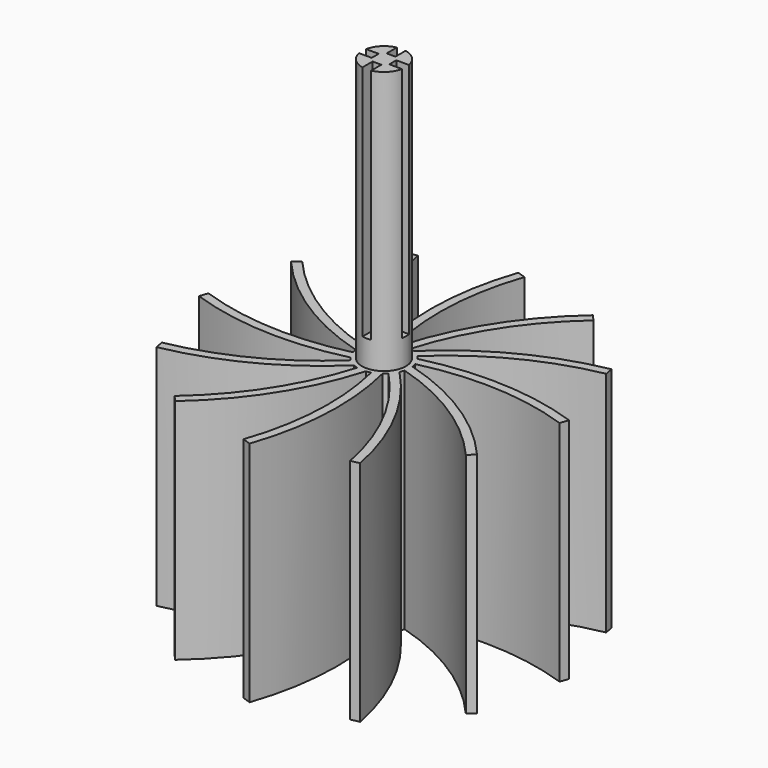
from build123d import *

# Parameters (mm, degrees)
F1_DEPTH = 51.9
F2_R     = 5
F3_DEPTH = 50
F4_R     = 5
F5_DEPTH = 60
F7_DEPTH = 54


with BuildPart() as f1:
    # F0 (on Top) → F1 (new body)
    with BuildSketch(Plane.XY):
        with BuildLine():
            ThreePointArc((1.3337239415, 1.4907111791), (1.4431608729, 1.6087570846), (1.5529086216, 1.7265140778))
            ThreePointArc((1.5529086216, 1.7265140778), (0.9818308126, 1.8448281713), (0.4096832255, 1.9578557215))
            ThreePointArc((0.4096832255, 1.9578557215), (0.1968239575, 0.980605563), (0, 0))
            ThreePointArc((0, 0), (0.6607573288, 0.7508173499), (1.3337239415, 1.4907111791))
        make_face()
        with BuildLine():
            ThreePointArc((1.9003944045, 0.62413178), (2.05419252, 0.6716440673), (2.2081153549, 0.7187507406))
            ThreePointArc((2.2081153549, 0.7187507406), (1.7727045116, 1.1067526557), (1.3337239415, 1.4907111791))
            ThreePointArc((1.3337239415, 1.4907111791), (0.6607573288, 0.7508173499), (0, 0))
            ThreePointArc((0, 0), (0.9476413074, 0.3198482342), (1.9003944045, 0.62413178))
        make_face()
        with BuildLine():
            ThreePointArc((1.9578557215, -0.4096832255), (2.1148049403, -0.4454354354), (2.2716593622, -0.4816012771))
            ThreePointArc((2.2716593622, -0.4816012771), (2.0885834683, 0.0721236597), (1.9003944045, 0.62413178))
            ThreePointArc((1.9003944045, 0.62413178), (0.9476413074, 0.3198482342), (0, 0))
            ThreePointArc((0, 0), (0.980605563, -0.1968239575), (1.9578557215, -0.4096832255))
        make_face()
        with BuildLine():
            ThreePointArc((1.7265140778, -1.5529086216), (1.8448281713, -0.9818308126), (1.9578557215, -0.4096832255))
            ThreePointArc((1.9578557215, -0.4096832255), (0.980605563, -0.1968239575), (0, 0))
            ThreePointArc((0, 0), (0.7508173499, -0.6607573288), (1.4907111791, -1.3337239415))
            ThreePointArc((1.4907111791, -1.3337239415), (1.6087570846, -1.4431608729), (1.7265140778, -1.5529086216))
        make_face()
        with BuildLine():
            ThreePointArc((1.4907111791, -1.3337239415), (0.7508173499, -0.6607573288), (0, 0))
            ThreePointArc((0, 0), (0.3198482342, -0.9476413074), (0.62413178, -1.9003944045))
            ThreePointArc((0.62413178, -1.9003944045), (0.6716440673, -2.05419252), (0.7187507406, -2.2081153549))
            ThreePointArc((0.7187507406, -2.2081153549), (1.1067526557, -1.7727045116), (1.4907111791, -1.3337239415))
        make_face()
        with BuildLine():
            ThreePointArc((0.62413178, -1.9003944045), (0.3198482342, -0.9476413074), (0, 0))
            ThreePointArc((0, 0), (-0.1968239575, -0.980605563), (-0.4096832255, -1.9578557215))
            ThreePointArc((-0.4096832255, -1.9578557215), (-0.4454354354, -2.1148049403), (-0.4816012771, -2.2716593622))
            ThreePointArc((-0.4816012771, -2.2716593622), (0.0721236597, -2.0885834683), (0.62413178, -1.9003944045))
        make_face()
        with BuildLine():
            ThreePointArc((-0.4096832255, -1.9578557215), (-0.1968239575, -0.980605563), (0, 0))
            ThreePointArc((0, 0), (-0.6607573288, -0.7508173499), (-1.3337239415, -1.4907111791))
            ThreePointArc((-1.3337239415, -1.4907111791), (-1.4431608729, -1.6087570846), (-1.5529086216, -1.7265140778))
            ThreePointArc((-1.5529086216, -1.7265140778), (-0.9818308126, -1.8448281713), (-0.4096832255, -1.9578557215))
        make_face()
        with BuildLine():
            ThreePointArc((-1.3337239415, -1.4907111791), (-0.6607573288, -0.7508173499), (0, 0))
            ThreePointArc((0, 0), (-0.9476413074, -0.3198482342), (-1.9003944045, -0.62413178))
            ThreePointArc((-1.9003944045, -0.62413178), (-2.05419252, -0.6716440673), (-2.2081153549, -0.7187507406))
            ThreePointArc((-2.2081153549, -0.7187507406), (-1.7727045116, -1.1067526557), (-1.3337239415, -1.4907111791))
        make_face()
        with BuildLine():
            ThreePointArc((-1.9003944045, -0.62413178), (-0.9476413074, -0.3198482342), (0, 0))
            ThreePointArc((0, 0), (-0.980605563, 0.1968239575), (-1.9578557215, 0.4096832255))
            ThreePointArc((-1.9578557215, 0.4096832255), (-2.1148049403, 0.4454354354), (-2.2716593622, 0.4816012771))
            ThreePointArc((-2.2716593622, 0.4816012771), (-2.0885834683, -0.0721236597), (-1.9003944045, -0.62413178))
        make_face()
        with BuildLine():
            ThreePointArc((-1.9578557215, 0.4096832255), (-0.980605563, 0.1968239575), (0, 0))
            ThreePointArc((0, 0), (-0.7508173499, 0.6607573288), (-1.4907111791, 1.3337239415))
            ThreePointArc((-1.4907111791, 1.3337239415), (-1.6087570846, 1.4431608729), (-1.7265140778, 1.5529086216))
            ThreePointArc((-1.7265140778, 1.5529086216), (-1.8448281713, 0.9818308126), (-1.9578557215, 0.4096832255))
        make_face()
        with BuildLine():
            ThreePointArc((-1.4907111791, 1.3337239415), (-0.7508173499, 0.6607573288), (0, 0))
            ThreePointArc((0, 0), (-0.3198482342, 0.9476413074), (-0.62413178, 1.9003944045))
            ThreePointArc((-0.62413178, 1.9003944045), (-0.6716440673, 2.05419252), (-0.7187507406, 2.2081153549))
            ThreePointArc((-0.7187507406, 2.2081153549), (-1.1067526557, 1.7727045116), (-1.4907111791, 1.3337239415))
        make_face()
        with BuildLine():
            ThreePointArc((0, 0), (0.1968239575, 0.980605563), (0.4096832255, 1.9578557215))
            ThreePointArc((0.4096832255, 1.9578557215), (0.4454354354, 2.1148049403), (0.4816012771, 2.2716593622))
            ThreePointArc((0.4816012771, 2.2716593622), (-0.0721236597, 2.0885834683), (-0.62413178, 1.9003944045))
            ThreePointArc((-0.62413178, 1.9003944045), (-0.3198482342, 0.9476413074), (0, 0))
        make_face()
        with BuildLine():
            ThreePointArc((-0.62413178, 1.9003944045), (-0.0721236597, 2.0885834683), (0.4816012771, 2.2716593622))
            ThreePointArc((0.4816012771, 2.2716593622), (0.6806785767, 3.1033997904), (0.8913857306, 3.9322703511))
            ThreePointArc((0.8913857306, 3.9322703511), (0.0782542347, 3.0777228892), (-0.7187507406, 2.2081153549))
            ThreePointArc((-0.7187507406, 2.2081153549), (-0.6716440673, 2.05419252), (-0.62413178, 1.9003944045))
        make_face()
        with BuildLine():
            ThreePointArc((0.4096832255, 1.9578557215), (0.9818308126, 1.8448281713), (1.5529086216, 1.7265140778))
            ThreePointArc((1.5529086216, 1.7265140778), (2.1411848344, 2.3472837682), (2.7380978628, 2.9597531533))
            ThreePointArc((2.7380978628, 2.9597531533), (1.6066315998, 2.6262590905), (0.4816012771, 2.2716593622))
            ThreePointArc((0.4816012771, 2.2716593622), (0.4454354354, 2.1148049403), (0.4096832255, 1.9578557215))
        make_face()
        with BuildLine():
            ThreePointArc((2.2081153549, 0.7187507406), (3.0279623449, 0.9622149559), (3.8511388839, 1.1941724883))
            ThreePointArc((3.8511388839, 1.1941724883), (2.7045133252, 1.4710912894), (1.5529086216, 1.7265140778))
            ThreePointArc((1.5529086216, 1.7265140778), (1.4431608729, 1.6087570846), (1.3337239415, 1.4907111791))
            ThreePointArc((1.3337239415, 1.4907111791), (1.7727045116, 1.1067526557), (2.2081153549, 0.7187507406))
        make_face()
        with BuildLine():
            ThreePointArc((5.8293856058, -1.4206559961), (5.9571937032, -0.715432165), (6, 0))
            ThreePointArc((6, 0), (5.991893307, 0.311792555), (5.9675951342, 0.6227425745))
            ThreePointArc((5.9675951342, 0.6227425745), (4.9118503598, 0.9176553403), (3.8511388839, 1.1941724883))
            ThreePointArc((3.8511388839, 1.1941724883), (3.0279623449, 0.9622149559), (2.2081153549, 0.7187507406))
            ThreePointArc((2.2081153549, 0.7187507406), (3.0777228892, -0.0782542347), (3.9322703511, -0.8913857306))
            ThreePointArc((3.9322703511, -0.8913857306), (4.882962136, -1.1483711934), (5.8293856058, -1.4206559961))
        make_face()
        with BuildLine():
            ThreePointArc((2.2716593622, -0.4816012771), (3.1033997904, -0.6806785767), (3.9322703511, -0.8913857306))
            ThreePointArc((3.9322703511, -0.8913857306), (3.0777228892, -0.0782542347), (2.2081153549, 0.7187507406))
            ThreePointArc((2.2081153549, 0.7187507406), (2.05419252, 0.6716440673), (1.9003944045, 0.62413178))
            ThreePointArc((1.9003944045, 0.62413178), (2.0885834683, 0.0721236597), (2.2716593622, -0.4816012771))
        make_face()
        with BuildLine():
            ThreePointArc((3.8511388839, 1.1941724883), (4.8029548522, 1.4469624415), (5.7587240211, 1.6843686202))
            ThreePointArc((5.7587240211, 1.6843686202), (5.3867561456, 2.642509835), (4.8567176985, 3.5231084567))
            ThreePointArc((4.8567176985, 3.5231084567), (3.794959521, 3.2506380165), (2.7380978628, 2.9597531533))
            ThreePointArc((2.7380978628, 2.9597531533), (2.1411848344, 2.3472837682), (1.5529086216, 1.7265140778))
            ThreePointArc((1.5529086216, 1.7265140778), (2.7045133252, 1.4710912894), (3.8511388839, 1.1941724883))
        make_face()
        with BuildLine():
            ThreePointArc((2.7380978628, 2.9597531533), (3.4359996944, 3.6545836588), (4.1450169856, 4.338068025))
            ThreePointArc((4.1450169856, 4.338068025), (3.3438127486, 4.9818587196), (2.4444866775, 5.479460273))
            ThreePointArc((2.4444866775, 5.479460273), (1.6612123432, 4.7126148613), (0.8913857306, 3.9322703511))
            ThreePointArc((0.8913857306, 3.9322703511), (0.6806785767, 3.1033997904), (0.4816012771, 2.2716593622))
            ThreePointArc((0.4816012771, 2.2716593622), (1.6066315998, 2.6262590905), (2.7380978628, 2.9597531533))
        make_face()
        with BuildLine():
            ThreePointArc((4.338068025, -4.1450169856), (4.9818587196, -3.3438127486), (5.479460273, -2.4444866775))
            ThreePointArc((5.479460273, -2.4444866775), (4.7126148613, -1.6612123432), (3.9322703511, -0.8913857306))
            ThreePointArc((3.9322703511, -0.8913857306), (3.1033997904, -0.6806785767), (2.2716593622, -0.4816012771))
            ThreePointArc((2.2716593622, -0.4816012771), (2.6262590905, -1.6066315998), (2.9597531533, -2.7380978628))
            ThreePointArc((2.9597531533, -2.7380978628), (3.6545836588, -3.4359996944), (4.338068025, -4.1450169856))
        make_face()
        with BuildLine():
            ThreePointArc((2.9597531533, -2.7380978628), (2.6262590905, -1.6066315998), (2.2716593622, -0.4816012771))
            ThreePointArc((2.2716593622, -0.4816012771), (2.1148049403, -0.4454354354), (1.9578557215, -0.4096832255))
            ThreePointArc((1.9578557215, -0.4096832255), (1.8448281713, -0.9818308126), (1.7265140778, -1.5529086216))
            ThreePointArc((1.7265140778, -1.5529086216), (2.3472837682, -2.1411848344), (2.9597531533, -2.7380978628))
        make_face()
        with BuildLine():
            ThreePointArc((1.6843686202, -5.7587240211), (2.642509835, -5.3867561456), (3.5231084567, -4.8567176985))
            ThreePointArc((3.5231084567, -4.8567176985), (3.2506380165, -3.794959521), (2.9597531533, -2.7380978628))
            ThreePointArc((2.9597531533, -2.7380978628), (2.3472837682, -2.1411848344), (1.7265140778, -1.5529086216))
            ThreePointArc((1.7265140778, -1.5529086216), (1.4710912894, -2.7045133252), (1.1941724883, -3.8511388839))
            ThreePointArc((1.1941724883, -3.8511388839), (1.4469624415, -4.8029548522), (1.6843686202, -5.7587240211))
        make_face()
        with BuildLine():
            ThreePointArc((1.1941724883, -3.8511388839), (1.4710912894, -2.7045133252), (1.7265140778, -1.5529086216))
            ThreePointArc((1.7265140778, -1.5529086216), (1.6087570846, -1.4431608729), (1.4907111791, -1.3337239415))
            ThreePointArc((1.4907111791, -1.3337239415), (1.1067526557, -1.7727045116), (0.7187507406, -2.2081153549))
            ThreePointArc((0.7187507406, -2.2081153549), (0.9622149559, -3.0279623449), (1.1941724883, -3.8511388839))
        make_face()
        with BuildLine():
            ThreePointArc((-1.4206559961, -5.8293856058), (-0.4048974259, -5.9863225836), (0.6227425745, -5.9675951342))
            ThreePointArc((0.6227425745, -5.9675951342), (0.9176553403, -4.9118503598), (1.1941724883, -3.8511388839))
            ThreePointArc((1.1941724883, -3.8511388839), (0.9622149559, -3.0279623449), (0.7187507406, -2.2081153549))
            ThreePointArc((0.7187507406, -2.2081153549), (-0.0782542347, -3.0777228892), (-0.8913857306, -3.9322703511))
            ThreePointArc((-0.8913857306, -3.9322703511), (-1.1483711934, -4.882962136), (-1.4206559961, -5.8293856058))
        make_face()
        with BuildLine():
            ThreePointArc((0.7187507406, -2.2081153549), (0.6716440673, -2.05419252), (0.62413178, -1.9003944045))
            ThreePointArc((0.62413178, -1.9003944045), (0.0721236597, -2.0885834683), (-0.4816012771, -2.2716593622))
            ThreePointArc((-0.4816012771, -2.2716593622), (-0.6806785767, -3.1033997904), (-0.8913857306, -3.9322703511))
            ThreePointArc((-0.8913857306, -3.9322703511), (-0.0782542347, -3.0777228892), (0.7187507406, -2.2081153549))
        make_face()
        with BuildLine():
            ThreePointArc((-0.8913857306, -3.9322703511), (-0.6806785767, -3.1033997904), (-0.4816012771, -2.2716593622))
            ThreePointArc((-0.4816012771, -2.2716593622), (-1.6066315998, -2.6262590905), (-2.7380978628, -2.9597531533))
            ThreePointArc((-2.7380978628, -2.9597531533), (-3.4359996944, -3.6545836588), (-4.1450169856, -4.338068025))
            ThreePointArc((-4.1450169856, -4.338068025), (-3.3438127486, -4.9818587196), (-2.4444866775, -5.479460273))
            ThreePointArc((-2.4444866775, -5.479460273), (-1.6612123432, -4.7126148613), (-0.8913857306, -3.9322703511))
        make_face()
        with BuildLine():
            ThreePointArc((-0.4816012771, -2.2716593622), (-0.4454354354, -2.1148049403), (-0.4096832255, -1.9578557215))
            ThreePointArc((-0.4096832255, -1.9578557215), (-0.9818308126, -1.8448281713), (-1.5529086216, -1.7265140778))
            ThreePointArc((-1.5529086216, -1.7265140778), (-2.1411848344, -2.3472837682), (-2.7380978628, -2.9597531533))
            ThreePointArc((-2.7380978628, -2.9597531533), (-1.6066315998, -2.6262590905), (-0.4816012771, -2.2716593622))
        make_face()
        with BuildLine():
            ThreePointArc((-2.7380978628, -2.9597531533), (-2.1411848344, -2.3472837682), (-1.5529086216, -1.7265140778))
            ThreePointArc((-1.5529086216, -1.7265140778), (-2.7045133252, -1.4710912894), (-3.8511388839, -1.1941724883))
            ThreePointArc((-3.8511388839, -1.1941724883), (-4.8029548522, -1.4469624415), (-5.7587240211, -1.6843686202))
            ThreePointArc((-5.7587240211, -1.6843686202), (-5.3867561456, -2.642509835), (-4.8567176985, -3.5231084567))
            ThreePointArc((-4.8567176985, -3.5231084567), (-3.794959521, -3.2506380165), (-2.7380978628, -2.9597531533))
        make_face()
        with BuildLine():
            ThreePointArc((-1.5529086216, -1.7265140778), (-1.4431608729, -1.6087570846), (-1.3337239415, -1.4907111791))
            ThreePointArc((-1.3337239415, -1.4907111791), (-1.7727045116, -1.1067526557), (-2.2081153549, -0.7187507406))
            ThreePointArc((-2.2081153549, -0.7187507406), (-3.0279623449, -0.9622149559), (-3.8511388839, -1.1941724883))
            ThreePointArc((-3.8511388839, -1.1941724883), (-2.7045133252, -1.4710912894), (-1.5529086216, -1.7265140778))
        make_face()
        with BuildLine():
            ThreePointArc((-3.8511388839, -1.1941724883), (-3.0279623449, -0.9622149559), (-2.2081153549, -0.7187507406))
            ThreePointArc((-2.2081153549, -0.7187507406), (-3.0777228892, 0.0782542347), (-3.9322703511, 0.8913857306))
            ThreePointArc((-3.9322703511, 0.8913857306), (-4.882962136, 1.1483711934), (-5.8293856058, 1.4206559961))
            ThreePointArc((-5.8293856058, 1.4206559961), (-5.9863225836, 0.4048974259), (-5.9675951342, -0.6227425745))
            ThreePointArc((-5.9675951342, -0.6227425745), (-4.9118503598, -0.9176553403), (-3.8511388839, -1.1941724883))
        make_face()
        with BuildLine():
            ThreePointArc((-2.2081153549, -0.7187507406), (-2.05419252, -0.6716440673), (-1.9003944045, -0.62413178))
            ThreePointArc((-1.9003944045, -0.62413178), (-2.0885834683, -0.0721236597), (-2.2716593622, 0.4816012771))
            ThreePointArc((-2.2716593622, 0.4816012771), (-3.1033997904, 0.6806785767), (-3.9322703511, 0.8913857306))
            ThreePointArc((-3.9322703511, 0.8913857306), (-3.0777228892, 0.0782542347), (-2.2081153549, -0.7187507406))
        make_face()
        with BuildLine():
            ThreePointArc((-3.9322703511, 0.8913857306), (-3.1033997904, 0.6806785767), (-2.2716593622, 0.4816012771))
            ThreePointArc((-2.2716593622, 0.4816012771), (-2.6262590905, 1.6066315998), (-2.9597531533, 2.7380978628))
            ThreePointArc((-2.9597531533, 2.7380978628), (-3.6545836588, 3.4359996944), (-4.338068025, 4.1450169856))
            ThreePointArc((-4.338068025, 4.1450169856), (-4.9818587196, 3.3438127486), (-5.479460273, 2.4444866775))
            ThreePointArc((-5.479460273, 2.4444866775), (-4.7126148613, 1.6612123432), (-3.9322703511, 0.8913857306))
        make_face()
        with BuildLine():
            ThreePointArc((-2.2716593622, 0.4816012771), (-2.1148049403, 0.4454354354), (-1.9578557215, 0.4096832255))
            ThreePointArc((-1.9578557215, 0.4096832255), (-1.8448281713, 0.9818308126), (-1.7265140778, 1.5529086216))
            ThreePointArc((-1.7265140778, 1.5529086216), (-2.3472837682, 2.1411848344), (-2.9597531533, 2.7380978628))
            ThreePointArc((-2.9597531533, 2.7380978628), (-2.6262590905, 1.6066315998), (-2.2716593622, 0.4816012771))
        make_face()
        with BuildLine():
            ThreePointArc((-2.9597531533, 2.7380978628), (-2.3472837682, 2.1411848344), (-1.7265140778, 1.5529086216))
            ThreePointArc((-1.7265140778, 1.5529086216), (-1.4710912894, 2.7045133252), (-1.1941724883, 3.8511388839))
            ThreePointArc((-1.1941724883, 3.8511388839), (-1.4469624415, 4.8029548522), (-1.6843686202, 5.7587240211))
            ThreePointArc((-1.6843686202, 5.7587240211), (-2.642509835, 5.3867561456), (-3.5231084567, 4.8567176985))
            ThreePointArc((-3.5231084567, 4.8567176985), (-3.2506380165, 3.794959521), (-2.9597531533, 2.7380978628))
        make_face()
        with BuildLine():
            ThreePointArc((-1.7265140778, 1.5529086216), (-1.6087570846, 1.4431608729), (-1.4907111791, 1.3337239415))
            ThreePointArc((-1.4907111791, 1.3337239415), (-1.1067526557, 1.7727045116), (-0.7187507406, 2.2081153549))
            ThreePointArc((-0.7187507406, 2.2081153549), (-0.9622149559, 3.0279623449), (-1.1941724883, 3.8511388839))
            ThreePointArc((-1.1941724883, 3.8511388839), (-1.4710912894, 2.7045133252), (-1.7265140778, 1.5529086216))
        make_face()
        with BuildLine():
            ThreePointArc((0.8913857306, 3.9322703511), (1.1483711934, 4.882962136), (1.4206559961, 5.8293856058))
            ThreePointArc((1.4206559961, 5.8293856058), (0.4048974259, 5.9863225836), (-0.6227425745, 5.9675951342))
            ThreePointArc((-0.6227425745, 5.9675951342), (-0.9176553403, 4.9118503598), (-1.1941724883, 3.8511388839))
            ThreePointArc((-1.1941724883, 3.8511388839), (-0.9622149559, 3.0279623449), (-0.7187507406, 2.2081153549))
            ThreePointArc((-0.7187507406, 2.2081153549), (0.0782542347, 3.0777228892), (0.8913857306, 3.9322703511))
        make_face()
        with BuildLine():
            ThreePointArc((0.8913857306, 3.9322703511), (1.6612123432, 4.7126148613), (2.4444866775, 5.479460273))
            ThreePointArc((2.4444866775, 5.479460273), (1.9404751755, 5.6775484228), (1.4206559961, 5.8293856058))
            ThreePointArc((1.4206559961, 5.8293856058), (1.1483711934, 4.882962136), (0.8913857306, 3.9322703511))
        make_face()
        with BuildLine():
            ThreePointArc((2.7380978628, 2.9597531533), (3.794959521, 3.2506380165), (4.8567176985, 3.5231084567))
            ThreePointArc((4.8567176985, 3.5231084567), (4.5192750088, 3.9466635776), (4.1450169856, 4.338068025))
            ThreePointArc((4.1450169856, 4.338068025), (3.4359996944, 3.6545836588), (2.7380978628, 2.9597531533))
        make_face()
        with BuildLine():
            ThreePointArc((3.8511388839, 1.1941724883), (4.9118503598, 0.9176553403), (5.9675951342, 0.6227425745))
            ThreePointArc((5.9675951342, 0.6227425745), (5.8871387531, 1.158273414), (5.7587240211, 1.6843686202))
            ThreePointArc((5.7587240211, 1.6843686202), (4.8029548522, 1.4469624415), (3.8511388839, 1.1941724883))
        make_face()
        with BuildLine():
            ThreePointArc((5.479460273, -2.4444866775), (5.6775484228, -1.9404751755), (5.8293856058, -1.4206559961))
            ThreePointArc((5.8293856058, -1.4206559961), (4.882962136, -1.1483711934), (3.9322703511, -0.8913857306))
            ThreePointArc((3.9322703511, -0.8913857306), (4.7126148613, -1.6612123432), (5.479460273, -2.4444866775))
        make_face()
        with BuildLine():
            ThreePointArc((3.5231084567, -4.8567176985), (3.9466635776, -4.5192750088), (4.338068025, -4.1450169856))
            ThreePointArc((4.338068025, -4.1450169856), (3.6545836588, -3.4359996944), (2.9597531533, -2.7380978628))
            ThreePointArc((2.9597531533, -2.7380978628), (3.2506380165, -3.794959521), (3.5231084567, -4.8567176985))
        make_face()
        with BuildLine():
            ThreePointArc((0.6227425745, -5.9675951342), (1.158273414, -5.8871387531), (1.6843686202, -5.7587240211))
            ThreePointArc((1.6843686202, -5.7587240211), (1.4469624415, -4.8029548522), (1.1941724883, -3.8511388839))
            ThreePointArc((1.1941724883, -3.8511388839), (0.9176553403, -4.9118503598), (0.6227425745, -5.9675951342))
        make_face()
        with BuildLine():
            ThreePointArc((-2.4444866775, -5.479460273), (-1.9404751755, -5.6775484228), (-1.4206559961, -5.8293856058))
            ThreePointArc((-1.4206559961, -5.8293856058), (-1.1483711934, -4.882962136), (-0.8913857306, -3.9322703511))
            ThreePointArc((-0.8913857306, -3.9322703511), (-1.6612123432, -4.7126148613), (-2.4444866775, -5.479460273))
        make_face()
        with BuildLine():
            ThreePointArc((-4.1450169856, -4.338068025), (-3.4359996944, -3.6545836588), (-2.7380978628, -2.9597531533))
            ThreePointArc((-2.7380978628, -2.9597531533), (-3.794959521, -3.2506380165), (-4.8567176985, -3.5231084567))
            ThreePointArc((-4.8567176985, -3.5231084567), (-4.5192750088, -3.9466635776), (-4.1450169856, -4.338068025))
        make_face()
        with BuildLine():
            ThreePointArc((-5.7587240211, -1.6843686202), (-4.8029548522, -1.4469624415), (-3.8511388839, -1.1941724883))
            ThreePointArc((-3.8511388839, -1.1941724883), (-4.9118503598, -0.9176553403), (-5.9675951342, -0.6227425745))
            ThreePointArc((-5.9675951342, -0.6227425745), (-5.8871387531, -1.158273414), (-5.7587240211, -1.6843686202))
        make_face()
        with BuildLine():
            ThreePointArc((-5.8293856058, 1.4206559961), (-4.882962136, 1.1483711934), (-3.9322703511, 0.8913857306))
            ThreePointArc((-3.9322703511, 0.8913857306), (-4.7126148613, 1.6612123432), (-5.479460273, 2.4444866775))
            ThreePointArc((-5.479460273, 2.4444866775), (-5.6775484228, 1.9404751755), (-5.8293856058, 1.4206559961))
        make_face()
        with BuildLine():
            ThreePointArc((-4.338068025, 4.1450169856), (-3.6545836588, 3.4359996944), (-2.9597531533, 2.7380978628))
            ThreePointArc((-2.9597531533, 2.7380978628), (-3.2506380165, 3.794959521), (-3.5231084567, 4.8567176985))
            ThreePointArc((-3.5231084567, 4.8567176985), (-3.9466635776, 4.5192750088), (-4.338068025, 4.1450169856))
        make_face()
        with BuildLine():
            ThreePointArc((-1.1941724883, 3.8511388839), (-0.9176553403, 4.9118503598), (-0.6227425745, 5.9675951342))
            ThreePointArc((-0.6227425745, 5.9675951342), (-1.158273414, 5.8871387531), (-1.6843686202, 5.7587240211))
            ThreePointArc((-1.6843686202, 5.7587240211), (-1.4469624415, 4.8029548522), (-1.1941724883, 3.8511388839))
        make_face()
        with BuildLine():
            ThreePointArc((-3.5231084567, 4.8567176985), (-2.642509835, 5.3867561456), (-1.6843686202, 5.7587240211))
            ThreePointArc((-1.6843686202, 5.7587240211), (-3.2946158269, 23), (0, 40))
            Line((0, 40), (-1.8896710779, 40.6550902361))
            ThreePointArc((-1.8896710779, 40.6550902361), (-5.3028149221, 22.8743757747), (-3.5231084567, 4.8567176985))
        make_face()
        with BuildLine():
            ThreePointArc((-0.6227425745, 5.9675951342), (0.4048974259, 5.9863225836), (1.4206559961, 5.8293856058))
            ThreePointArc((1.4206559961, 5.8293856058), (8.6467789982, 21.5658922005), (20, 34.6410161514))
            Line((20, 34.6410161514), (18.6910419598, 36.1531764765))
            ThreePointArc((18.6910419598, 36.1531764765), (6.8448154533, 22.4611979777), (-0.6227425745, 5.9675951342))
        make_face()
        with BuildLine():
            ThreePointArc((2.4444866775, 5.479460273), (3.3438127486, 4.9818587196), (4.1450169856, 4.338068025))
            ThreePointArc((4.1450169856, 4.338068025), (18.2712763736, 14.3532210018), (34.6410161514, 20))
            Line((34.6410161514, 20), (34.2635053987, 21.9640482763))
            ThreePointArc((34.2635053987, 21.9640482763), (17.1583830556, 16.0295603214), (2.4444866775, 5.479460273))
        make_face()
        with BuildLine():
            ThreePointArc((4.8567176985, 3.5231084567), (5.3867561456, 2.642509835), (5.7587240211, 1.6843686202))
            ThreePointArc((5.7587240211, 1.6843686202), (23, 3.2946158269), (40, 0))
            Line((40, 0), (40.6550902361, 1.8896710779))
            ThreePointArc((40.6550902361, 1.8896710779), (22.8743757747, 5.3028149221), (4.8567176985, 3.5231084567))
        make_face()
        with BuildLine():
            ThreePointArc((5.9675951342, 0.6227425745), (5.991893307, 0.311792555), (6, 0))
            ThreePointArc((6, 0), (5.9571937032, -0.715432165), (5.8293856058, -1.4206559961))
            ThreePointArc((5.8293856058, -1.4206559961), (21.5658922005, -8.6467789982), (34.6410161514, -20))
            Line((34.6410161514, -20), (36.1531764765, -18.6910419598))
            ThreePointArc((36.1531764765, -18.6910419598), (22.4611979777, -6.8448154533), (5.9675951342, 0.6227425745))
        make_face()
        with BuildLine():
            ThreePointArc((1.8896710779, -40.6550902361), (5.3028149221, -22.8743757747), (3.5231084567, -4.8567176985))
            ThreePointArc((3.5231084567, -4.8567176985), (2.642509835, -5.3867561456), (1.6843686202, -5.7587240211))
            ThreePointArc((1.6843686202, -5.7587240211), (3.2946158269, -23), (0, -40))
            Line((0, -40), (1.8896710779, -40.6550902361))
        make_face()
        with BuildLine():
            ThreePointArc((-18.6910419598, -36.1531764765), (-6.8448154533, -22.4611979777), (0.6227425745, -5.9675951342))
            ThreePointArc((0.6227425745, -5.9675951342), (-0.4048974259, -5.9863225836), (-1.4206559961, -5.8293856058))
            ThreePointArc((-1.4206559961, -5.8293856058), (-8.6467789982, -21.5658922005), (-20, -34.6410161514))
            Line((-20, -34.6410161514), (-18.6910419598, -36.1531764765))
        make_face()
        with BuildLine():
            ThreePointArc((-34.2635053987, -21.9640482763), (-17.1583830556, -16.0295603214), (-2.4444866775, -5.479460273))
            ThreePointArc((-2.4444866775, -5.479460273), (-3.3438127486, -4.9818587196), (-4.1450169856, -4.338068025))
            ThreePointArc((-4.1450169856, -4.338068025), (-18.2712763736, -14.3532210018), (-34.6410161514, -20))
            Line((-34.6410161514, -20), (-34.2635053987, -21.9640482763))
        make_face()
        with BuildLine():
            ThreePointArc((-5.479460273, 2.4444866775), (-4.9818587196, 3.3438127486), (-4.338068025, 4.1450169856))
            ThreePointArc((-4.338068025, 4.1450169856), (-14.3532210018, 18.2712763736), (-20, 34.6410161514))
            Line((-20, 34.6410161514), (-21.9640482763, 34.2635053987))
            ThreePointArc((-21.9640482763, 34.2635053987), (-16.0295603214, 17.1583830556), (-5.479460273, 2.4444866775))
        make_face()
        with BuildLine():
            ThreePointArc((21.9640482763, -34.2635053987), (16.0295603214, -17.1583830556), (5.479460273, -2.4444866775))
            ThreePointArc((5.479460273, -2.4444866775), (4.9818587196, -3.3438127486), (4.338068025, -4.1450169856))
            ThreePointArc((4.338068025, -4.1450169856), (14.3532210018, -18.2712763736), (20, -34.6410161514))
            Line((20, -34.6410161514), (21.9640482763, -34.2635053987))
        make_face()
        with BuildLine():
            ThreePointArc((-4.8567176985, -3.5231084567), (-5.3867561456, -2.642509835), (-5.7587240211, -1.6843686202))
            ThreePointArc((-5.7587240211, -1.6843686202), (-23, -3.2946158269), (-40, 0))
            Line((-40, 0), (-40.6550902361, -1.8896710779))
            ThreePointArc((-40.6550902361, -1.8896710779), (-22.8743757747, -5.3028149221), (-4.8567176985, -3.5231084567))
        make_face()
        with BuildLine():
            ThreePointArc((-5.9675951342, -0.6227425745), (-5.9863225836, 0.4048974259), (-5.8293856058, 1.4206559961))
            ThreePointArc((-5.8293856058, 1.4206559961), (-21.5658922005, 8.6467789982), (-34.6410161514, 20))
            Line((-34.6410161514, 20), (-36.1531764765, 18.6910419598))
            ThreePointArc((-36.1531764765, 18.6910419598), (-22.4611979777, 6.8448154533), (-5.9675951342, -0.6227425745))
        make_face()
    extrude(amount=F1_DEPTH)

    # F2 (on face) → F3 (cut)
    with BuildSketch(Plane(origin=(0, 0, 0), x_dir=(1, 0, 0), z_dir=(0, 0, -1))):
        Circle(F2_R)
    extrude(amount=-F3_DEPTH, mode=Mode.SUBTRACT)

    # F4 (on face) → F5 (join)
    with BuildSketch(Plane.XY.offset(51.9)):
        Circle(F4_R)
    extrude(amount=F5_DEPTH)

    # F6 (on face) → F7 (cut)
    with BuildSketch(Plane.XY.offset(111.9)):
        with BuildLine():
            Line((-1, 4.8989794856), (-1, 2))
            Line((-1, 2), (1, 2))
            Line((1, 2), (1, 4.8989794856))
            ThreePointArc((1, 4.8989794856), (0, 5), (-1, 4.8989794856))
        make_face()
        with BuildLine():
            Line((-2, 1), (-4.8989794856, 1))
            ThreePointArc((-4.8989794856, 1), (-5, 0), (-4.8989794856, -1))
            Line((-4.8989794856, -1), (-2, -1))
            Line((-2, -1), (-2, 1))
        make_face()
        with BuildLine():
            Line((-1, -2), (-1, -4.8989794856))
            ThreePointArc((-1, -4.8989794856), (0, -5), (1, -4.8989794856))
            Line((1, -4.8989794856), (1, -2))
            Line((1, -2), (-1, -2))
        make_face()
        with BuildLine():
            ThreePointArc((5, 0), (4.974680765, 0.50254481), (4.8989794856, 1))
            Line((4.8989794856, 1), (2, 1))
            Line((2, 1), (2, -1))
            Line((2, -1), (4.8989794856, -1))
            ThreePointArc((4.8989794856, -1), (4.974680765, -0.50254481), (5, 0))
        make_face()
    extrude(amount=-F7_DEPTH, mode=Mode.SUBTRACT)


solid = f1.part
